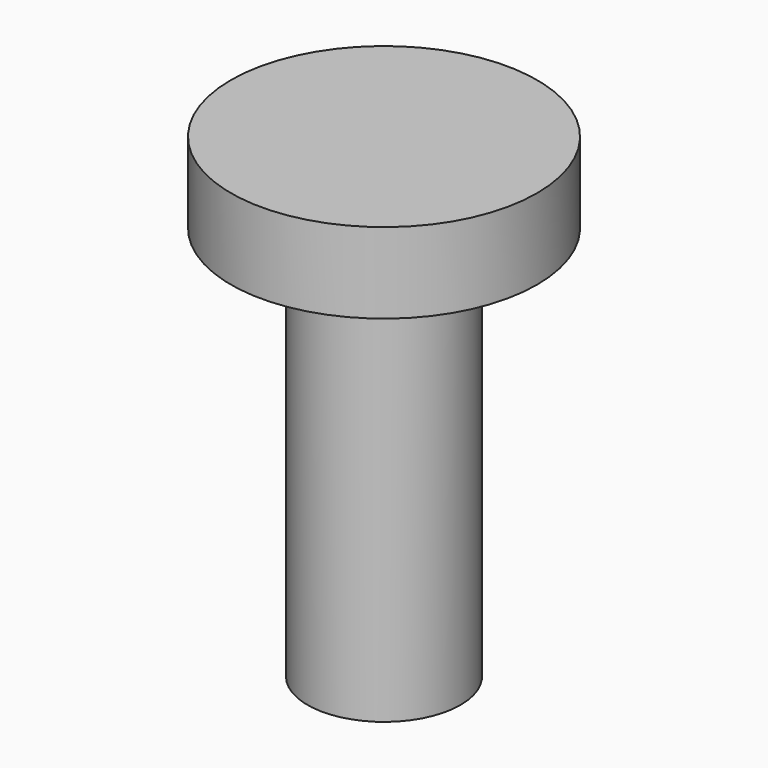
from build123d import *

# Parameters (mm, degrees)
SKETCH039_R  = 1.9
PAD015_DEPTH = 6
SKETCH040_R  = 3.8
PAD016_DEPTH = 2
SKETCH049_R  = 1.9
PAD023_DEPTH = 3.8


with BuildPart() as part:
    # Sketch039 (on Face1 of CopyPocket020) → Pad015 (new body)
    with BuildSketch(Plane.XY.offset(14)):
        with Locations((36, 0)):
            Circle(SKETCH039_R)
    extrude(amount=PAD015_DEPTH)

    # Sketch040 (on Face3 of Pad015) → Pad016 (join)
    with BuildSketch(Plane.XY.offset(20)):
        with Locations((36, 0)):
            Circle(SKETCH040_R)
    extrude(amount=PAD016_DEPTH)

    # Sketch049 (on Face1 of Pad016) → Pad023 (join)
    with BuildSketch(Plane(origin=(0, 0, 14), x_dir=(1, 0, 0), z_dir=(0, 0, -1))):
        with Locations((36, 0)):
            Circle(SKETCH049_R)
    extrude(amount=PAD023_DEPTH)


solid = part.part
